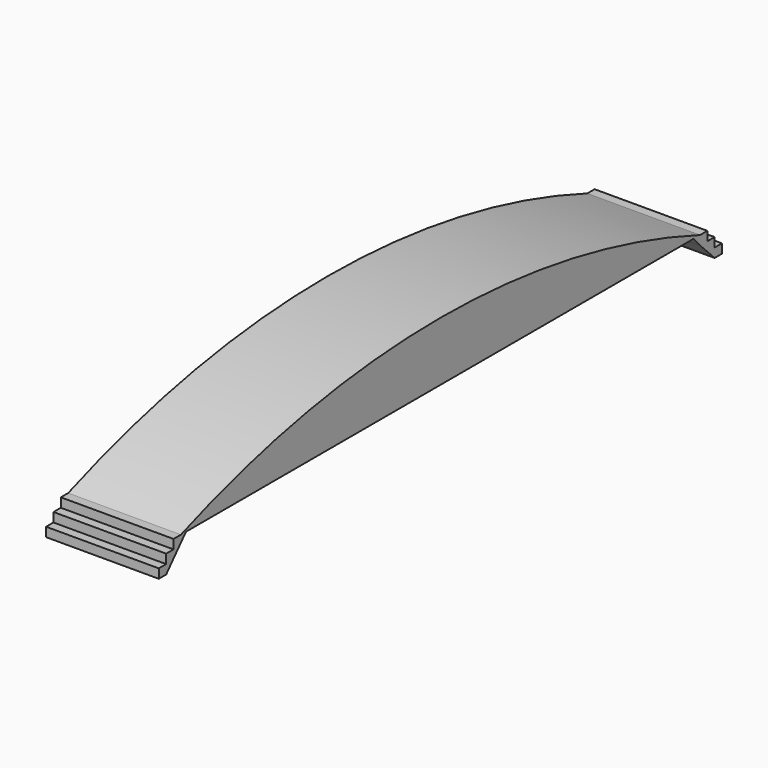
from build123d import *

# Parameters (mm, degrees)
F1_DEPTH = 9.398


with BuildPart() as f1:
    # F0 (on Right) → F1 (new body, symmetric)
    with BuildSketch(Plane.YZ):
        with BuildLine():
            Line((-53.051602, 0), (0, 0))
            Line((0, 0), (52.764028, 0))
            Line((52.764028, 0), (54.10748, 0))
            ThreePointArc((54.10748, 0), (-2e-06, 9.859408), (-54.107483, 0))
            Line((-54.107483, 0), (-53.051602, 0))
        make_face()
        Polygon((-57.177503, -4.60484), (-53.051602, 0), (-54.107483, 0), (-55.642284, 0), (-55.642284, -1.534401), (-57.177503, -1.534401), (-57.177503, -3.069621), (-58.712725, -3.069621), (-58.712725, -4.60484), align=None)
        Polygon((54.10748, 0), (52.764028, 0), (54.10748, -1.534401), (57.149637, -4.60484), (58.668837, -4.60484), (58.668837, -3.069621), (57.149637, -3.069621), (57.149637, -1.534401), (55.630438, -1.534401), (55.630438, 0), align=None)
    extrude(amount=F1_DEPTH, both=True)


solid = f1.part
